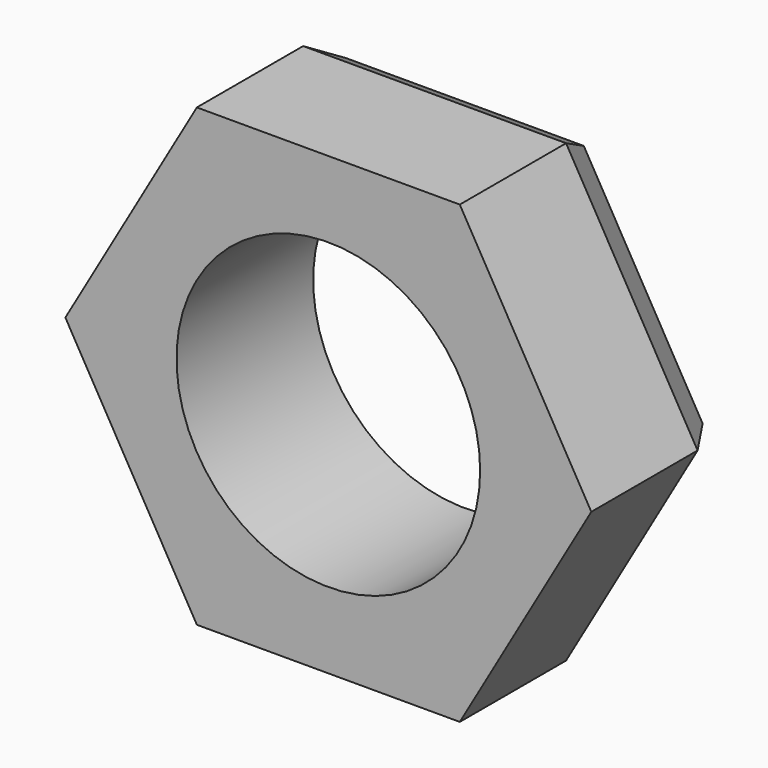
from build123d import *

# Parameters (mm, degrees)
F0_R     = 8
F1_DEPTH = 9
F2_SIZE2 = 1.154701
F2_SIZE  = 2


with BuildPart() as f1:
    # F0 (on Front) → F1 (new body)
    with BuildSketch(Plane.XZ):
        Polygon((6.928203, 12), (-6.928203, 12), (-13.856406, 0), (-6.928203, -12), (6.928203, -12), (13.856406, 0), align=None)
        Circle(F0_R, mode=Mode.SUBTRACT)
    extrude(amount=F1_DEPTH)

    # F2
    f2_edges = [f1.edges().sort_by_distance(p)[0] for p in [
        (-10.392305, 0, 6),
        (-10.392305, 0, -6),
        (0, 0, 12),
        (10.392305, 0, 6),
        (10.392305, 0, -6),
        (0, 0, -12),
    ]]
    chamfer(f2_edges, length=F2_SIZE, length2=F2_SIZE2)


solid = f1.part
